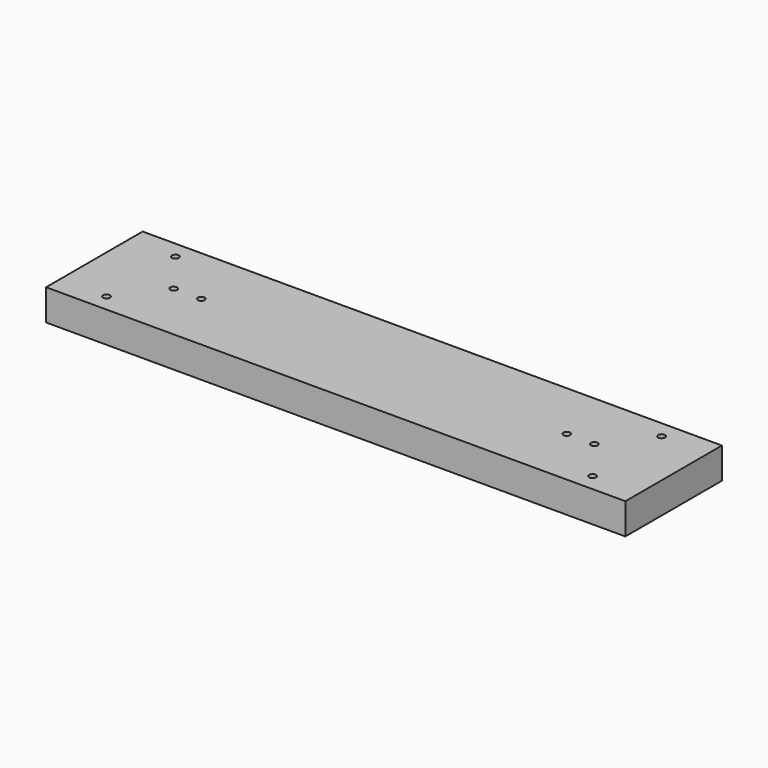
from build123d import *

# Parameters (mm, degrees)
CYLINDER005_R     = 11
CYLINDER005_DEPTH = 8
CYLINDER004_R     = 4
CYLINDER004_DEPTH = 10
CYLINDER002_R     = 2
CYLINDER002_DEPTH = 25
CYLINDER001_R     = 2
CYLINDER001_DEPTH = 25
CYLINDER_R        = 2
CYLINDER_DEPTH    = 25
CYLINDER003_R     = 2
CYLINDER003_DEPTH = 25
BOX_W             = 168
BOX_H             = 70
BOX_DEPTH         = 18


with BuildPart() as cilindro005:
    # Cylinder005 → Cylinder005 (new body)
    with BuildSketch(Plane(origin=(168, 60, 0), x_dir=(1, 0, 0), z_dir=(0, 0, 1))):
        Circle(CYLINDER005_R)
    extrude(amount=CYLINDER005_DEPTH)


with BuildPart() as cilindro004:
    # Cylinder004 → Cylinder004 (new body)
    with BuildSketch(Plane(origin=(78, 61, 0), x_dir=(1, 0, 0), z_dir=(0, 0, 1))):
        Circle(CYLINDER004_R)
    extrude(amount=CYLINDER004_DEPTH)


with BuildPart() as cilindro002:
    # Cylinder002 → Cylinder002 (new body)
    with BuildSketch(Plane(origin=(46, 35, 0), x_dir=(1, 0, 0), z_dir=(0, 0, 1))):
        Circle(CYLINDER002_R)
    extrude(amount=CYLINDER002_DEPTH)


with BuildPart() as cilindro001:
    # Cylinder001 → Cylinder001 (new body)
    with BuildSketch(Plane(origin=(27, 60, 0), x_dir=(1, 0, 0), z_dir=(0, 0, 1))):
        Circle(CYLINDER001_R)
    extrude(amount=CYLINDER001_DEPTH)


with BuildPart() as cilindro:
    # Cylinder → Cylinder (new body)
    with BuildSketch(Plane(origin=(27, 10, 0), x_dir=(1, 0, 0), z_dir=(0, 0, 1))):
        Circle(CYLINDER_R)
    extrude(amount=CYLINDER_DEPTH)


with BuildPart() as fusion:
    # Cylinder003 → Cylinder003 (new body)
    with BuildSketch(Plane(origin=(62, 35, 0), x_dir=(1, 0, 0), z_dir=(0, 0, 1))):
        Circle(CYLINDER003_R)
    extrude(amount=CYLINDER003_DEPTH)

    # Fusion: union Cilindro004, Cilindro002, Cilindro001, Cilindro
    add(cilindro004.part)
    add(cilindro002.part)
    add(cilindro001.part)
    add(cilindro.part)


with BuildPart() as cut:
    # Box → Box (new body)
    with BuildSketch(Plane.XY):
        with Locations((84, 35)):
            Rectangle(BOX_W, BOX_H)
    extrude(amount=BOX_DEPTH)

    # Cut: cut Fusion
    add(fusion.part, mode=Mode.SUBTRACT)


with BuildPart() as cut001:
    # mirror: instance of Cut
    add(cut.part.mirror(Plane(origin=(168, 0, 0), x_dir=(0, -1, 0), z_dir=(1, 0, 0))))

    # Fusion001: union Cut
    add(cut.part)

    # Cut001: cut Cilindro005
    add(cilindro005.part, mode=Mode.SUBTRACT)


solid = cut001.part
